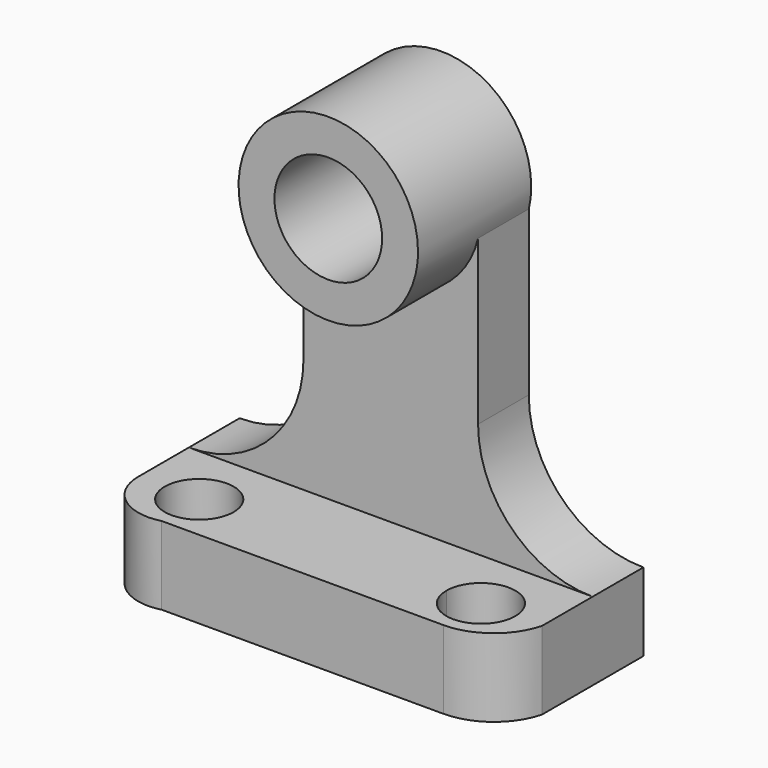
from build123d import *

# Parameters (mm, degrees)
F1_DEPTH = 25.4
F2_W     = 56.788672138
F2_H     = 0.0079375762
F2_R     = 17.5097347042
F3_DEPTH = 20.6140112132
F4_DEPTH = 25.4


with BuildPart() as f1:
    # F0 (on Top) → F1 (new body)
    with BuildSketch(Plane.XY):
        with BuildLine():
            Line((-45.808903873, -35.8836464584), (45.808903873, -35.8836464584))
            Line((45.808903873, -35.8836464584), (45.808903873, -31.8233038162))
            ThreePointArc((45.808903873, -31.8233038162), (37.8827370611, -28.5401780251), (34.5996112699, -20.6140112132))
            Line((34.5996112699, -20.6140112132), (-34.5996112699, -20.6140112132))
            ThreePointArc((-34.5996112699, -20.6140112132), (-37.8827370611, -28.5401780251), (-45.808903873, -31.8233038162))
            Line((-45.808903873, -31.8233038162), (-45.808903873, -35.8836464584))
        make_face()
        with BuildLine():
            ThreePointArc((-65.6594336033, -20.6140112132), (-59.4935648199, -33.1360447052), (-45.808903873, -35.8836464584))
            Line((-45.808903873, -35.8836464584), (-45.808903873, -31.8233038162))
            ThreePointArc((-45.808903873, -31.8233038162), (-53.7350706849, -28.5401780251), (-57.018196476, -20.6140112132))
            Line((-57.018196476, -20.6140112132), (-65.6594336033, -20.6140112132))
        make_face()
        with BuildLine():
            ThreePointArc((45.808903873, -35.8836464584), (58.3309373649, -31.6246287158), (65.6594336033, -20.6140112132))
            Line((65.6594336033, -20.6140112132), (57.018196476, -20.6140112132))
            ThreePointArc((57.018196476, -20.6140112132), (53.7350706849, -28.5401780251), (45.808903873, -31.8233038162))
            Line((45.808903873, -31.8233038162), (45.808903873, -35.8836464584))
        make_face()
        with BuildLine():
            Line((57.018196476, -20.6140112132), (65.6594336033, -20.6140112132))
            Line((65.6594336033, -20.6140112132), (65.6594336033, 20.6140112132))
            Line((65.6594336033, 20.6140112132), (-65.6594336033, 20.6140112132))
            Line((-65.6594336033, 20.6140112132), (-65.6594336033, -20.6140112132))
            Line((-65.6594336033, -20.6140112132), (-57.018196476, -20.6140112132))
            ThreePointArc((-57.018196476, -20.6140112132), (-45.808903873, -9.4047186102), (-34.5996112699, -20.6140112132))
            Line((-34.5996112699, -20.6140112132), (34.5996112699, -20.6140112132))
            ThreePointArc((34.5996112699, -20.6140112132), (45.808903873, -9.4047186102), (57.018196476, -20.6140112132))
        make_face()
    extrude(amount=F1_DEPTH)

    # F2 (on Front) → F3 (join, through all)
    with BuildSketch(Plane.XZ):
        with Locations((0, 25.3960312119)):
            Rectangle(F2_W, F2_H)
        with BuildLine():
            ThreePointArc((65.6594336033, 25.4), (39.3090304352, 36.3146943662), (28.394336069, 62.6650975343))
            Line((28.394336069, 62.6650975343), (28.394336069, 25.4))
            Line((28.394336069, 25.4), (45.808903873, 25.4))
            Line((45.808903873, 25.4), (65.6594336033, 25.4))
        make_face()
        with BuildLine():
            ThreePointArc((28.394336069, 115.8985176562), (0, 93.4414670745), (-28.394336069, 115.8985176562))
            Line((-28.394336069, 115.8985176562), (-28.394336069, 62.6650975343))
            Line((-28.394336069, 62.6650975343), (-28.394336069, 25.4))
            Line((-28.394336069, 25.4), (28.394336069, 25.4))
            Line((28.394336069, 25.4), (28.394336069, 62.6650975343))
            Line((28.394336069, 62.6650975343), (28.394336069, 115.8985176562))
        make_face()
        with BuildLine():
            Line((-28.394336069, 25.4), (-28.394336069, 62.6650975343))
            ThreePointArc((-28.394336069, 62.6650975343), (-39.3090304352, 36.3146943662), (-65.6594336033, 25.4))
            Line((-65.6594336033, 25.4), (-45.808903873, 25.4))
            Line((-45.808903873, 25.4), (-28.394336069, 25.4))
        make_face()
        with BuildLine():
            ThreePointArc((28.394336069, 115.8985176562), (28.9823181644, 119.2367591717), (29.179197795, 122.6206648695))
            ThreePointArc((29.179197795, 122.6206648695), (-3.3839056978, 151.6029830339), (-28.394336069, 115.8985176562))
            ThreePointArc((-28.394336069, 115.8985176562), (0, 93.4414670745), (28.394336069, 115.8985176562))
        make_face()
        with Locations((0, 122.6206648695)):
            Circle(F2_R, mode=Mode.SUBTRACT)
    extrude(amount=-F3_DEPTH)

    # F2 (on Front) → F4 (join)
    with BuildSketch(Plane.XZ):
        with BuildLine():
            ThreePointArc((28.394336069, 115.8985176562), (28.9823181644, 119.2367591717), (29.179197795, 122.6206648695))
            ThreePointArc((29.179197795, 122.6206648695), (-3.3839056978, 151.6029830339), (-28.394336069, 115.8985176562))
            ThreePointArc((-28.394336069, 115.8985176562), (0, 93.4414670745), (28.394336069, 115.8985176562))
        make_face()
        with Locations((0, 122.6206648695)):
            Circle(F2_R, mode=Mode.SUBTRACT)
    extrude(amount=F4_DEPTH)


solid = f1.part
